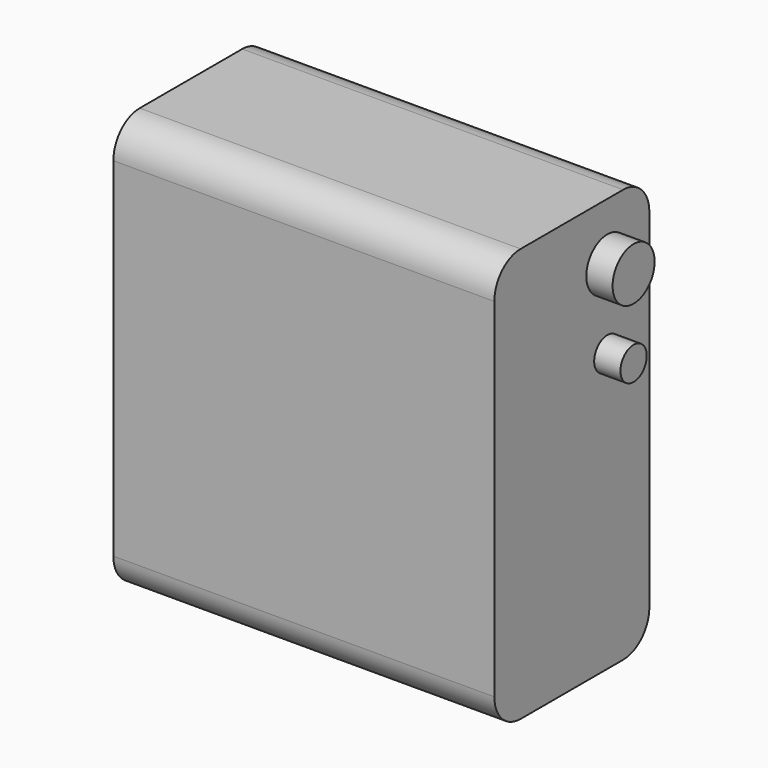
from build123d import *

# Parameters (mm, degrees)
F0_W     = 58
F0_H     = 63
F1_DEPTH = 29.5
F2_R     = 5
F3_R     = 4
F3_R_2   = 2.5
F4_DEPTH = 4


with BuildPart() as f1:
    # F0 (on Front) → F1 (new body)
    with BuildSketch(Plane.XZ):
        Rectangle(F0_W, F0_H)
    extrude(amount=F1_DEPTH)

    # F2
    f2_edges = [f1.edges().sort_by_distance(p)[0] for p in [
        (0, 0, 31.5),
        (0, 0, -31.5),
        (0, -29.5, -31.5),
        (0, -29.5, 31.5),
    ]]
    fillet(f2_edges, radius=F2_R)

    # F3 (on face) → F4 (join)
    with BuildSketch(Plane.YZ.offset(29)):
        with Locations((-8, 22.752069)):
            Circle(F3_R)
        with Locations((-8, 10.752069)):
            Circle(F3_R_2)
    extrude(amount=F4_DEPTH)


solid = f1.part
